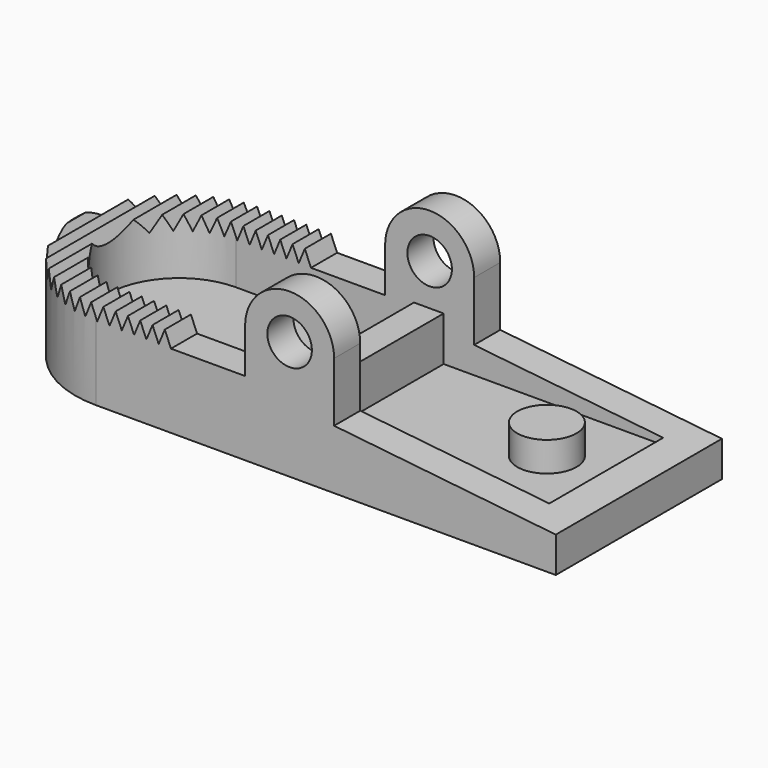
from build123d import *

# Parameters (mm, degrees)
F1_DEPTH  = 25
F2_T      = -2.2
F3_R      = 1.5
F4_DEPTH  = 12.5
F5_R      = 2
F6_DEPTH  = 2
F7_W      = 2
F7_H      = 9.6
F8_DEPTH  = 3
F10_DEPTH = 14


with BuildPart() as f1:
    # F0 (on Top) → F1 (new body)
    with BuildSketch(Plane.XY):
        with BuildLine():
            Line((19, 7), (-12, 7))
            ThreePointArc((-12, 7), (-19, 0), (-12, -7))
            Line((-12, -7), (19, -7))
            Line((19, -7), (19, 7))
        make_face()
    extrude(amount=F1_DEPTH)

    # F2
    f2_openings = [f1.faces().sort_by_distance(p)[0] for p in [
        (0.717666, 0, 25),
    ]]
    offset(amount=F2_T, openings=f2_openings)

    # F3 (on Front) → F4 (cut, symmetric)
    with BuildSketch(Plane.XZ):
        with BuildLine():
            Line((4.05511, 8), (4.05511, 4))
            Line((4.05511, 4), (19, 2.4))
            Line((19, 2.4), (19, 25))
            Line((19, 25), (-19.30074, 25))
            Line((-19.30074, 25), (-19.30074, 6))
            Line((-19.30074, 6), (-6.94489, 6))
            Line((-6.94489, 6), (-6.94489, 5))
            Line((-6.94489, 5), (-1.94489, 5))
            Line((-1.94489, 5), (-1.94489, 8))
            ThreePointArc((-1.94489, 8), (1.05511, 11), (4.05511, 8))
        make_face()
        with Locations((1.05511, 8)):
            Circle(F3_R)
    extrude(amount=F4_DEPTH, both=True, mode=Mode.SUBTRACT)

    # F5 (on face) → F6 (join)
    with BuildSketch(Plane.XY.offset(2.2)):
        with Locations((12.8, 0)):
            Circle(F5_R)
    extrude(amount=F6_DEPTH)

    # F7 (on face) → F8 (join)
    with BuildSketch(Plane.XY.offset(2.2)):
        with Locations((1, 0)):
            Rectangle(F7_W, F7_H)
    extrude(amount=F8_DEPTH)

    # F9 (on face) → F10 (cut, through all)
    with BuildSketch(Plane.XZ.offset(7)):
        Polygon((-18.54287, 5), (-18.128656, 6), (-18.957083, 6), align=None)
        Polygon((-17.714443, 5), (-17.300229, 6), (-18.128656, 6), align=None)
        Polygon((-16.886015, 5), (-16.471802, 6), (-17.300229, 6), align=None)
        Polygon((-16.057588, 5), (-15.643375, 6), (-16.471802, 6), align=None)
        Polygon((-15.229161, 5), (-14.814948, 6), (-15.643375, 6), align=None)
        Polygon((-14.400734, 5), (-13.98652, 6), (-14.814948, 6), align=None)
        Polygon((-13.572307, 5), (-13.158093, 6), (-13.98652, 6), align=None)
        Polygon((-12.74388, 5), (-12.329666, 6), (-13.158093, 6), align=None)
        Polygon((-11.915453, 5), (-11.501239, 6), (-12.329666, 6), align=None)
        Polygon((-11.087026, 5), (-10.672812, 6), (-11.501239, 6), align=None)
        Polygon((-10.258598, 5), (-9.844385, 6), (-10.672812, 6), align=None)
        Polygon((-9.430171, 5), (-9.015958, 6), (-9.844385, 6), align=None)
        Polygon((-8.601744, 5), (-8.187531, 6), (-9.015958, 6), align=None)
        Polygon((-7.773317, 5), (-7.359103, 6), (-8.187531, 6), align=None)
        Polygon((-6.94489, 5), (-6.530676, 6), (-7.359103, 6), align=None)
    extrude(amount=-F10_DEPTH, mode=Mode.SUBTRACT)


solid = f1.part
